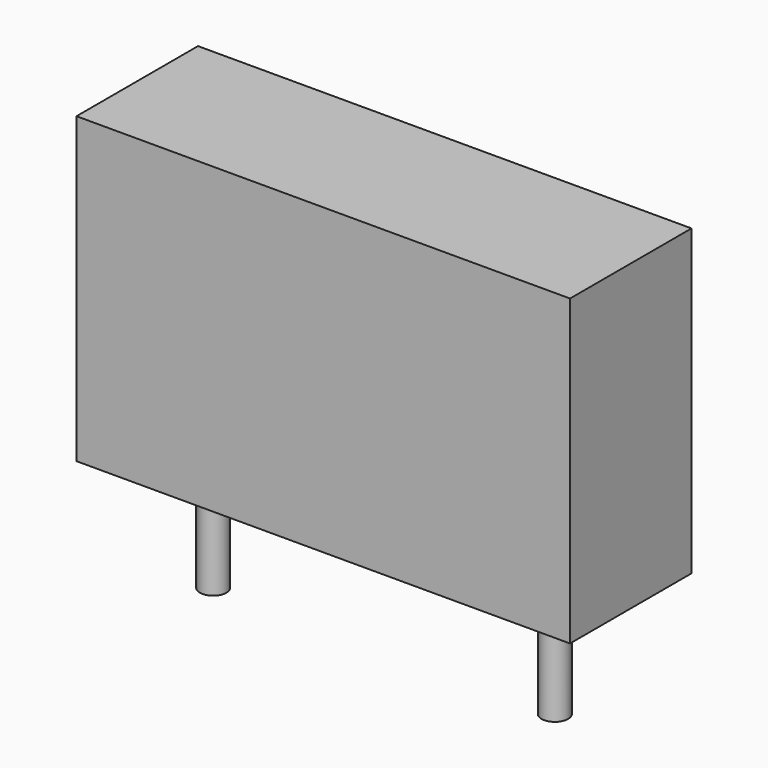
from build123d import *

# Parameters (mm, degrees)
SKETCH_W     = 13
SKETCH_H     = 4
PAD_DEPTH    = 8
SKETCH001_R  = 0.35
PAD001_DEPTH = 3.5


with BuildPart() as pad:
    # Sketch → Pad (new body)
    with BuildSketch(Plane.XY.offset(0.1)):
        with Locations((4.5, 0)):
            Rectangle(SKETCH_W, SKETCH_H)
    extrude(amount=PAD_DEPTH)


with BuildPart() as pad001:
    # Sketch001 → Pad001 (new body)
    with BuildSketch(Plane.XY.offset(0.5)):
        Circle(SKETCH001_R)
        with Locations((9, 0)):
            Circle(SKETCH001_R)
    extrude(amount=-PAD001_DEPTH)


solid = Compound([pad.part, pad001.part])
